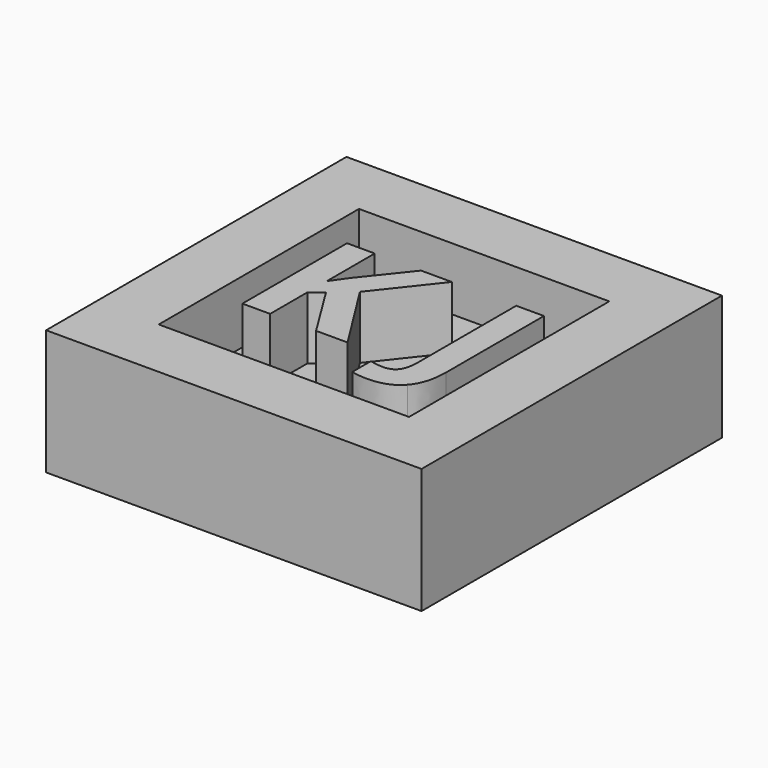
from build123d import *

# Parameters (mm, degrees)
F0_W     = 30
F0_H     = 30
F1_DEPTH = 10
F2_W     = 20
F2_H     = 20
F3_DEPTH = 5


with BuildPart() as f1:
    # F0 (on Top) → F1 (new body)
    with BuildSketch(Plane.XY):
        Rectangle(F0_W, F0_H)
    extrude(amount=F1_DEPTH)

    # F2 (on face) → F3 (cut)
    with BuildSketch(Plane.XY.offset(10)):
        Rectangle(F2_W, F2_H)
        with BuildLine():
            add(Edge.make_bspline(
                [(7.215320122, -6.6516768293), (6.3795731707, -7.6097560976), (4.7423780488, -7.6097560976)],
                knots=[0, 0, 0, 1, 1, 1], degree=2))
            add(Edge.make_bspline(
                [(4.7423780488, -7.6097560976), (3.9923780488, -7.6097560976), (3.4344512195, -7.4519817073)],
                knots=[0, 0, 0, 1, 1, 1], degree=2))
            Line((3.4344512195, -7.4519817073), (3.4344512195, -5.6089939024))
            add(Edge.make_bspline(
                [(3.4344512195, -5.6089939024), (4.006097561, -5.7507621951), (4.4771341463, -5.7507621951)],
                knots=[0, 0, 0, 1, 1, 1], degree=2))
            add(Edge.make_bspline(
                [(4.4771341463, -5.7507621951), (5.206554878, -5.7507621951), (5.5209603659, -5.296875)],
                knots=[0, 0, 0, 1, 1, 1], degree=2))
            add(Edge.make_bspline(
                [(5.5209603659, -5.296875), (5.8353658537, -4.8429878049), (5.8353658537, -3.8780487805)],
                knots=[0, 0, 0, 1, 1, 1], degree=2))
            Line((5.8353658537, -3.8780487805), (5.8353658537, 5.9108231707))
            Line((5.8353658537, 5.9108231707), (8.0510670732, 5.9108231707))
            Line((8.0510670732, 5.9108231707), (8.0510670732, -3.8643292683))
            add(Edge.make_bspline(
                [(8.0510670732, -3.8643292683), (8.0510670732, -5.693597561), (7.215320122, -6.6516768293)],
                knots=[0, 0, 0, 1, 1, 1], degree=2))
        make_face(mode=Mode.SUBTRACT)
        Polygon((-2.9542682927, 1.287347561), (0.7179878049, -4.5365853659), (-1.7972560976, -4.5365853659), (-4.5342987805, -0.1349085366), (-5.4695121951, -0.8071646341), (-5.4695121951, -4.5365853659), (-7.6852134146, -4.5365853659), (-7.6852134146, 5.9108231707), (-5.4695121951, 5.9108231707), (-5.4695121951, 1.1295731707), (-4.5983231707, 2.3597560976), (-1.7675304878, 5.9108231707), (0.6905487805, 5.9108231707), align=None, mode=Mode.SUBTRACT)
    extrude(amount=-F3_DEPTH, mode=Mode.SUBTRACT)


solid = f1.part
